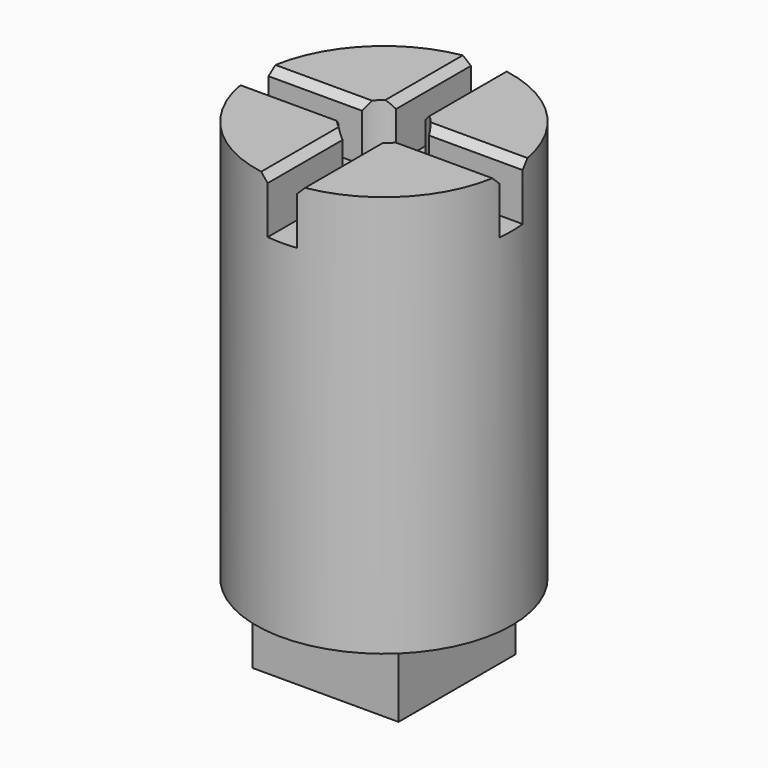
from build123d import *

# Parameters (mm, degrees)
F0_R     = 22.225
F1_DEPTH = 82.55
F3_DEPTH = 9.525
F4_SIZE  = 1.27
F5_R     = 22.225
F5_W     = 25.4
F5_H     = 25.4
F6_DEPTH = 12.7
F7_R     = 1.27
F8_R     = 6.35
F9_DEPTH = 82.551


with BuildPart() as f1:
    # F0 (on Top) → F1 (new body)
    with BuildSketch(Plane.XY):
        Circle(F0_R)
    extrude(amount=F1_DEPTH)

    # F2 (on face) → F3 (cut)
    with BuildSketch(Plane.XY.offset(82.55)):
        with BuildLine():
            ThreePointArc((2.54, 22.0793800864), (0, 22.225), (-2.54, 22.0793800864))
            Line((-2.54, 22.0793800864), (-2.54, 2.54))
            Line((-2.54, 2.54), (-22.0793800864, 2.54))
            ThreePointArc((-22.0793800864, 2.54), (-22.225, 0), (-22.0793800864, -2.54))
            Line((-22.0793800864, -2.54), (-2.54, -2.54))
            Line((-2.54, -2.54), (-2.54, -22.0793800864))
            ThreePointArc((-2.54, -22.0793800864), (0, -22.225), (2.54, -22.0793800864))
            Line((2.54, -22.0793800864), (2.54, -2.54))
            Line((2.54, -2.54), (22.0793800864, -2.54))
            ThreePointArc((22.0793800864, -2.54), (22.1885651566, -1.2720854098), (22.225, 0))
            ThreePointArc((22.225, 0), (22.1885651566, 1.2720854098), (22.0793800864, 2.54))
            Line((22.0793800864, 2.54), (2.54, 2.54))
            Line((2.54, 2.54), (2.54, 22.0793800864))
        make_face()
    extrude(amount=-F3_DEPTH, mode=Mode.SUBTRACT)

    # F4
    f4_edges = [f1.edges().sort_by_distance(p)[0] for p in [
        (-12.30969, 2.54, 82.55),
        (-2.54, 12.30969, 82.55),
        (2.54, 12.30969, 82.55),
        (12.30969, 2.54, 82.55),
        (12.30969, -2.54, 82.55),
        (2.54, -12.30969, 82.55),
        (-2.54, -12.30969, 82.55),
        (-12.30969, -2.54, 82.55),
    ]]
    chamfer(f4_edges, length=F4_SIZE)

    # F5 (on face) → F6 (cut)
    with BuildSketch(Plane(origin=(0, 0, 0), x_dir=(1, 0, 0), z_dir=(0, 0, -1))):
        Circle(F5_R)
        Rectangle(F5_W, F5_H, mode=Mode.SUBTRACT)
    extrude(amount=-F6_DEPTH, mode=Mode.SUBTRACT)

    # F7
    f7_edges = [f1.edges().sort_by_distance(p)[0] for p in [
        (0, 12.7, 12.7),
        (12.7, 0, 12.7),
        (-12.7, 0, 12.7),
        (0, -12.7, 12.7),
    ]]
    fillet(f7_edges, radius=F7_R)

    # F8 (on face) → F9 (cut, through all)
    with BuildSketch(Plane(origin=(0, 0, 0), x_dir=(1, 0, 0), z_dir=(0, 0, -1))):
        Circle(F8_R)
    extrude(amount=-F9_DEPTH, mode=Mode.SUBTRACT)


solid = f1.part
